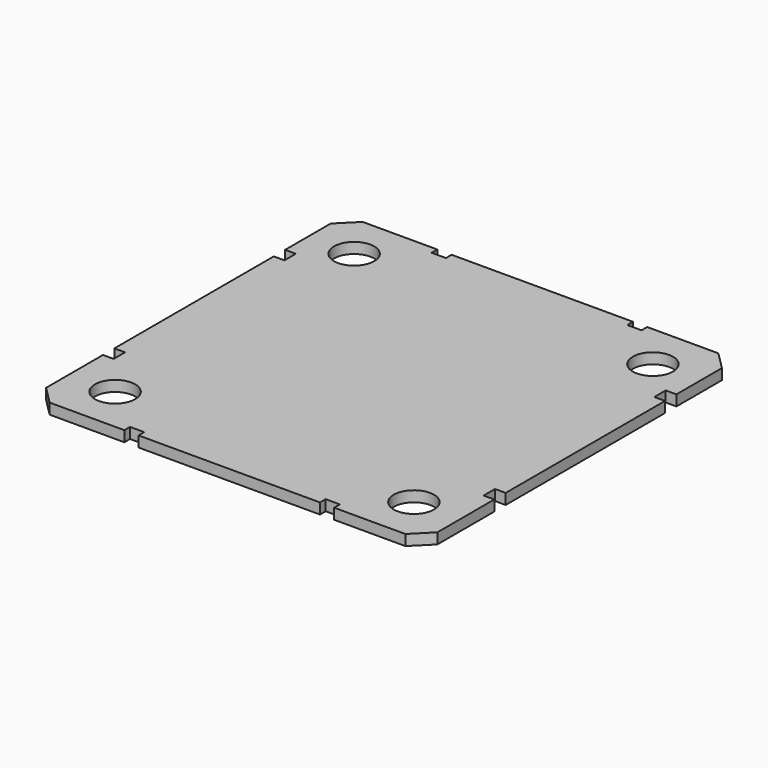
from build123d import *

# Parameters (mm, degrees)
CYLINDER013_R          = 0.565
CYLINDER013_DEPTH      = 5
CYLINDER012_R          = 0.565
CYLINDER012_DEPTH      = 5
CYLINDER008_R          = 0.565
CYLINDER008_DEPTH      = 5
CYLINDER003_R          = 0.565
CYLINDER003_DEPTH      = 5
BOX018_W               = 0.4
BOX018_H               = 1
BOX018_DEPTH           = 1
BOX018_PLACEMENT_ANGLE = 90
BOX001_W               = 0.4
BOX001_H               = 1
BOX001_DEPTH           = 1
BOX001_PLACEMENT_ANGLE = 90
BOX014_W               = 0.4
BOX014_H               = 1
BOX014_DEPTH           = 1
BOX014_PLACEMENT_ANGLE = 90
BOX015_W               = 0.4
BOX015_H               = 1
BOX015_DEPTH           = 1
BOX015_PLACEMENT_ANGLE = 90
BOX017_W               = 0.4
BOX017_H               = 1
BOX017_DEPTH           = 1
BOX016_W               = 0.4
BOX016_H               = 1
BOX016_DEPTH           = 1
BOX013_W               = 0.4
BOX013_H               = 1
BOX013_DEPTH           = 1
BOX_W                  = 0.4
BOX_H                  = 1
BOX_DEPTH              = 1
BOX012_W               = 11
BOX012_H               = 11
BOX012_DEPTH           = 0.3
CHAMFER002_SIZE        = 0.5
CUT010_PLACEMENT_ANGLE = 90


with BuildPart() as cilindro009:
    # Cylinder013 → Cylinder013 (new body)
    with BuildSketch(Plane(origin=(4.2, -4.2, 0), x_dir=(1, 0, 0), z_dir=(0, 0, 1))):
        Circle(CYLINDER013_R)
    extrude(amount=CYLINDER013_DEPTH)


with BuildPart() as cilindro008:
    # Cylinder012 → Cylinder012 (new body)
    with BuildSketch(Plane(origin=(-4.2, -4.2, 0), x_dir=(1, 0, 0), z_dir=(0, 0, 1))):
        Circle(CYLINDER012_R)
    extrude(amount=CYLINDER012_DEPTH)


with BuildPart() as cilindro006:
    # Cylinder008 → Cylinder008 (new body)
    with BuildSketch(Plane(origin=(4.2, 4.2, 0), x_dir=(1, 0, 0), z_dir=(0, 0, 1))):
        Circle(CYLINDER008_R)
    extrude(amount=CYLINDER008_DEPTH)


with BuildPart() as cilindro007:
    # Cylinder003 → Cylinder003 (new body)
    with BuildSketch(Plane(origin=(-4.2, 4.2, 0), x_dir=(1, 0, 0), z_dir=(0, 0, 1))):
        Circle(CYLINDER003_R)
    extrude(amount=CYLINDER003_DEPTH)


with BuildPart() as obj1:
    # Box018 → Box018 (new body)
    with BuildSketch(Plane.XY):
        with Locations((0.2, 0.5)):
            Rectangle(BOX018_W, BOX018_H)
    extrude(amount=BOX018_DEPTH)


with BuildPart() as obj1_1:
    # Box018 placement: moved
    add(obj1.part.moved(Location((6.3, -3, 3))).rotate(Axis((6.3, -3, 3), (0, 0, 1)), BOX018_PLACEMENT_ANGLE))


with BuildPart() as obj2:
    # Box001 → Box001 (new body)
    with BuildSketch(Plane.XY):
        with Locations((0.2, 0.5)):
            Rectangle(BOX001_W, BOX001_H)
    extrude(amount=BOX001_DEPTH)


with BuildPart() as obj2_1:
    # Box001 placement: moved
    add(obj2.part.moved(Location((6.3, 2.5, 3))).rotate(Axis((6.3, 2.5, 3), (0, 0, 1)), BOX001_PLACEMENT_ANGLE))


with BuildPart() as obj3:
    # Box014 → Box014 (new body)
    with BuildSketch(Plane.XY):
        with Locations((0.2, 0.5)):
            Rectangle(BOX014_W, BOX014_H)
    extrude(amount=BOX014_DEPTH)


with BuildPart() as obj3_1:
    # Box014 placement: moved
    add(obj3.part.moved(Location((-5.3, -3, 3))).rotate(Axis((-5.3, -3, 3), (0, 0, 1)), BOX014_PLACEMENT_ANGLE))


with BuildPart() as obj4:
    # Box015 → Box015 (new body)
    with BuildSketch(Plane.XY):
        with Locations((0.2, 0.5)):
            Rectangle(BOX015_W, BOX015_H)
    extrude(amount=BOX015_DEPTH)


with BuildPart() as obj4_1:
    # Box015 placement: moved
    add(obj4.part.moved(Location((-5.3, 2.5, 3))).rotate(Axis((-5.3, 2.5, 3), (0, 0, 1)), BOX015_PLACEMENT_ANGLE))


with BuildPart() as obj5:
    # Box017 → Box017 (new body)
    with BuildSketch(Plane(origin=(3, -6.2, 3), x_dir=(1, 0, 0), z_dir=(0, 0, 1))):
        with Locations((0.2, 0.5)):
            Rectangle(BOX017_W, BOX017_H)
    extrude(amount=BOX017_DEPTH)


with BuildPart() as obj6:
    # Box016 → Box016 (new body)
    with BuildSketch(Plane(origin=(-3, -6.2, 3), x_dir=(1, 0, 0), z_dir=(0, 0, 1))):
        with Locations((0.2, 0.5)):
            Rectangle(BOX016_W, BOX016_H)
    extrude(amount=BOX016_DEPTH)


with BuildPart() as obj7:
    # Box013 → Box013 (new body)
    with BuildSketch(Plane(origin=(3, 5.2, 3), x_dir=(1, 0, 0), z_dir=(0, 0, 1))):
        with Locations((0.2, 0.5)):
            Rectangle(BOX013_W, BOX013_H)
    extrude(amount=BOX013_DEPTH)


with BuildPart() as obj8:
    # Box → Box (new body)
    with BuildSketch(Plane(origin=(-3, 5.2, 3), x_dir=(1, 0, 0), z_dir=(0, 0, 1))):
        with Locations((0.2, 0.5)):
            Rectangle(BOX_W, BOX_H)
    extrude(amount=BOX_DEPTH)


with BuildPart() as obj9:
    # Box012 → Box012 (new body)
    with BuildSketch(Plane(origin=(-5.5, -5.5, 3.6), x_dir=(1, 0, 0), z_dir=(0, 0, 1))):
        with Locations((5.5, 5.5)):
            Rectangle(BOX012_W, BOX012_H)
    extrude(amount=BOX012_DEPTH)

    # Chamfer002
    chamfer002_edges = [obj9.edges().sort_by_distance(p)[0] for p in [
        (-5.5, -5.5, 3.75),
        (-5.5, 5.5, 3.75),
        (5.5, -5.5, 3.75),
        (5.5, 5.5, 3.75),
    ]]
    chamfer(chamfer002_edges, length=CHAMFER002_SIZE)


with BuildPart() as obj9_1:
    # Chamfer002 placement: moved
    add(obj9.part.moved(Location((0, 0, -0.4))))

    # Cut021: cut obj8
    add(obj8.part, mode=Mode.SUBTRACT)

    # Cut022: cut obj7
    add(obj7.part, mode=Mode.SUBTRACT)

    # Cut029: cut obj6
    add(obj6.part, mode=Mode.SUBTRACT)

    # Cut006: cut obj5
    add(obj5.part, mode=Mode.SUBTRACT)

    # Cut005: cut obj4
    add(obj4_1.part, mode=Mode.SUBTRACT)

    # Cut023: cut obj3
    add(obj3_1.part, mode=Mode.SUBTRACT)

    # Cut009: cut obj2
    add(obj2_1.part, mode=Mode.SUBTRACT)

    # Cut003: cut obj1
    add(obj1_1.part, mode=Mode.SUBTRACT)

    # Cut028: cut Cilindro007
    add(cilindro007.part, mode=Mode.SUBTRACT)

    # Cut027: cut Cilindro006
    add(cilindro006.part, mode=Mode.SUBTRACT)

    # Cut004: cut Cilindro008
    add(cilindro008.part, mode=Mode.SUBTRACT)

    # Cut010: cut Cilindro009
    add(cilindro009.part, mode=Mode.SUBTRACT)


with BuildPart() as obj9_2:
    # Cut010 placement: moved
    add(obj9_1.part.moved(Location((0, 1.7, 1.6))).rotate(Axis((0, 1.7, 1.6), (0, 0, 1)), CUT010_PLACEMENT_ANGLE))


solid = obj9_2.part
